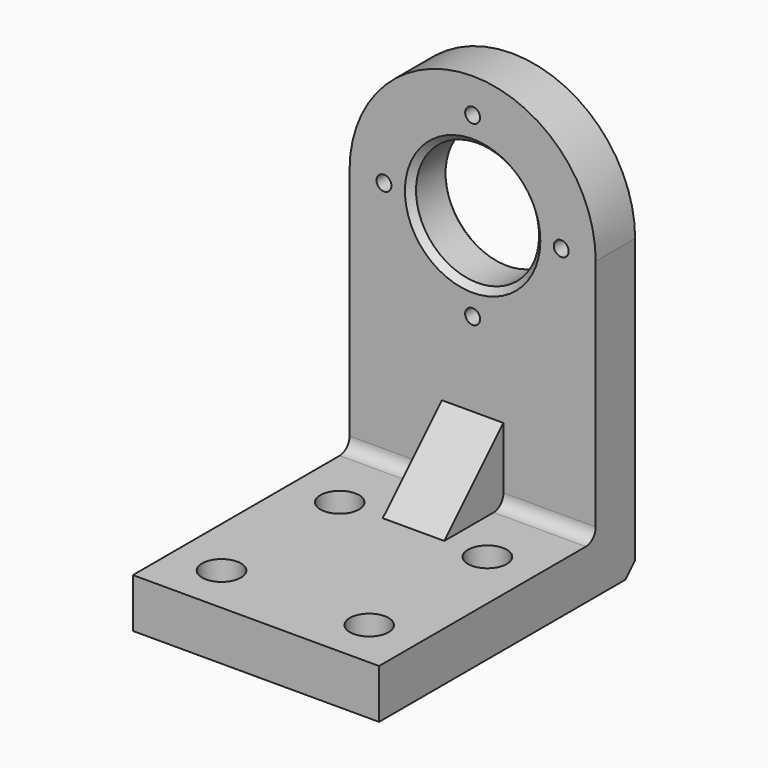
from build123d import *

# Parameters (mm, degrees)
F0_R            = 50
F1_DEPTH        = 40
F2_SIZE         = 5
F3_D            = 12.1
F4_DEPTH        = 260
F5_R            = 10
F6_SIZE         = 10
F8_DEPTH        = 25
F10_D           = 17.5
F10_CBORE_D     = 31.5
F10_CBORE_DEPTH = 20


with BuildPart() as f1:
    # F0 (on Front) → F1 (new body)
    with BuildSketch(Plane.XZ):
        with BuildLine():
            Line((-100, 0), (0, 0))
            Line((0, 0), (100, 0))
            Line((100, 0), (100, 200))
            ThreePointArc((100, 200), (0, 300), (-100, 200))
            Line((-100, 200), (-100, 0))
        make_face()
        with Locations((0, 200)):
            Circle(F0_R, mode=Mode.SUBTRACT)
        Polygon((100, 0), (0, 0), (-100, 0), (-100, -40), (100, -40), align=None)
    extrude(amount=F1_DEPTH)

    # F2
    f2_edges = [f1.edges().sort_by_distance(p)[0] for p in [
        (50, -20, 200),
        (-50, 0, 200),
        (-50, -40, 200),
    ]]
    chamfer(f2_edges, length=F2_SIZE)

    # F3 (through all)
    with Locations(Plane(origin=(0, 0, 0), x_dir=(1, 0, 0), z_dir=(0, 1, 0))):
        with Locations((0, -272), (72, -200), (0, -128), (-72, -200)):
            Hole(F3_D / 2)

    # F0 (on Front) → F4 (join)
    with BuildSketch(Plane.XZ):
        Polygon((100, 0), (0, 0), (-100, 0), (-100, -40), (100, -40), align=None)
    extrude(amount=F4_DEPTH)

    # F5
    f5_edges = [f1.edges().sort_by_distance(p)[0] for p in [
        (0, -40, 0),
    ]]
    fillet(f5_edges, radius=F5_R)

    # F6
    f6_edges = [f1.edges().sort_by_distance(p)[0] for p in [
        (0, 0, -40),
    ]]
    chamfer(f6_edges, length=F6_SIZE)

    # F7 (on Right) → F8 (join, symmetric)
    with BuildSketch(Plane.YZ):
        with BuildLine():
            ThreePointArc((-50, 0), (-42.9289321881, 2.9289321881), (-40, 10))
            Line((-40, 10), (-40, 60))
            Line((-40, 60), (-100, 0))
            Line((-100, 0), (-50, 0))
        make_face()
    extrude(amount=F8_DEPTH, both=True)

    # F10 (through all)
    with Locations(Plane.XY):
        with Locations((-60, -100), (60, -100), (60, -220), (-60, -220)):
            CounterBoreHole(F10_D / 2, F10_CBORE_D / 2, F10_CBORE_DEPTH)


solid = f1.part
